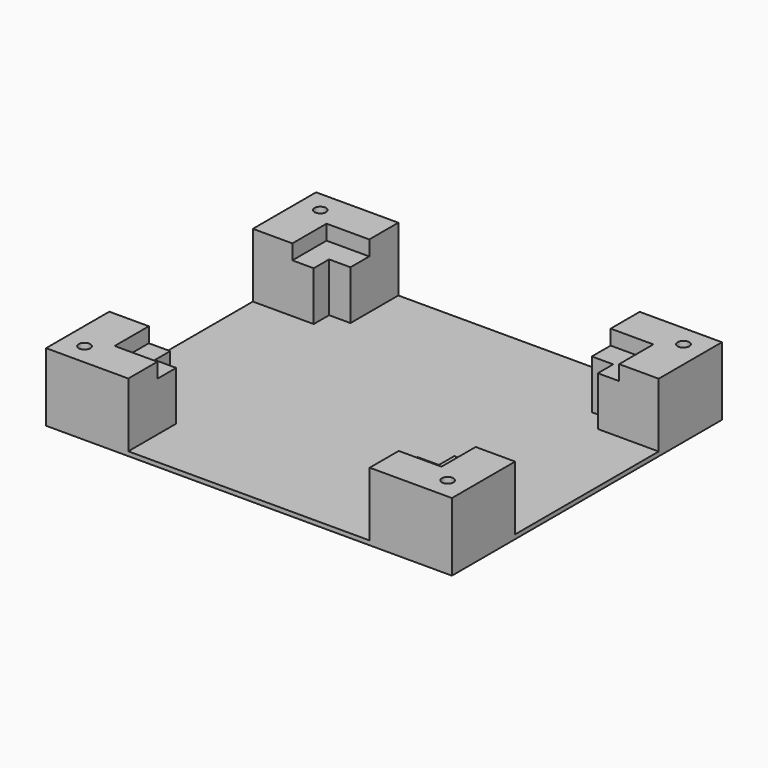
from build123d import *

# Parameters (mm, degrees)
F0_W     = 95
F0_H     = 79
F1_DEPTH = 1
F2_W     = 95
F2_H     = 79
F2_W_2   = 66.5
F2_H_2   = 51
F3_DEPTH = 15
F4_W     = 76.5
F4_H     = 62
F4_W_2   = 66.5
F4_H_2   = 51
F5_DEPTH = 3.5
F6_W     = 56.5
F6_H     = 8.5
F6_H_2   = 10
F6_W_2   = 10
F6_H_3   = 42
F6_W_3   = 9.25
F7_DEPTH = 15
F8_R     = 1.35
F9_DEPTH = 16.001


with BuildPart() as f1:
    # F0 (on Top) → F1 (new body)
    with BuildSketch(Plane.XY):
        with Locations((47.5, 39.5)):
            Rectangle(F0_W, F0_H)
    extrude(amount=F1_DEPTH)

    # F2 (on face) → F3 (join)
    with BuildSketch(Plane.XY.offset(1)):
        with Locations((47.5, 39.5)):
            Rectangle(F2_W, F2_H)
        with Locations((47.5, 39.5)):
            Rectangle(F2_W_2, F2_H_2, mode=Mode.SUBTRACT)
    extrude(amount=F3_DEPTH)

    # F4 (on face) → F5 (cut)
    with BuildSketch(Plane.XY.offset(16)):
        with Locations((47.5, 39.5)):
            Rectangle(F4_W, F4_H)
        with Locations((47.5, 39.5)):
            Rectangle(F4_W_2, F4_H_2, mode=Mode.SUBTRACT)
    extrude(amount=-F5_DEPTH, mode=Mode.SUBTRACT)

    # F6 (on face) → F7 (cut, through all)
    with BuildSketch(Plane.XY.offset(16)):
        with Locations((47.5, 74.75)):
            Rectangle(F6_W, F6_H)
        with Locations((47.5, 65.5)):
            Rectangle(F6_W, F6_H_2)
        with Locations((14.25, 39.5)):
            Rectangle(F6_W_2, F6_H_3)
        with Locations((4.625, 39.5)):
            Rectangle(F6_W_3, F6_H_3)
        with Locations((90.375, 39.5)):
            Rectangle(F6_W_3, F6_H_3)
        with Locations((80.75, 39.5)):
            Rectangle(F6_W_2, F6_H_3)
        with Locations((47.5, 4.25)):
            Rectangle(F6_W, F6_H)
        with Locations((47.5, 13.5)):
            Rectangle(F6_W, F6_H_2)
    extrude(amount=-F7_DEPTH, mode=Mode.SUBTRACT)

    # F8 (on face) → F9 (cut, through all)
    with BuildSketch(Plane.XY.offset(16)):
        with Locations((5, 74)):
            Circle(F8_R)
        with Locations((5, 5)):
            Circle(F8_R)
        with Locations((90, 5)):
            Circle(F8_R)
        with Locations((90, 74)):
            Circle(F8_R)
    extrude(amount=-F9_DEPTH, mode=Mode.SUBTRACT)


solid = f1.part
